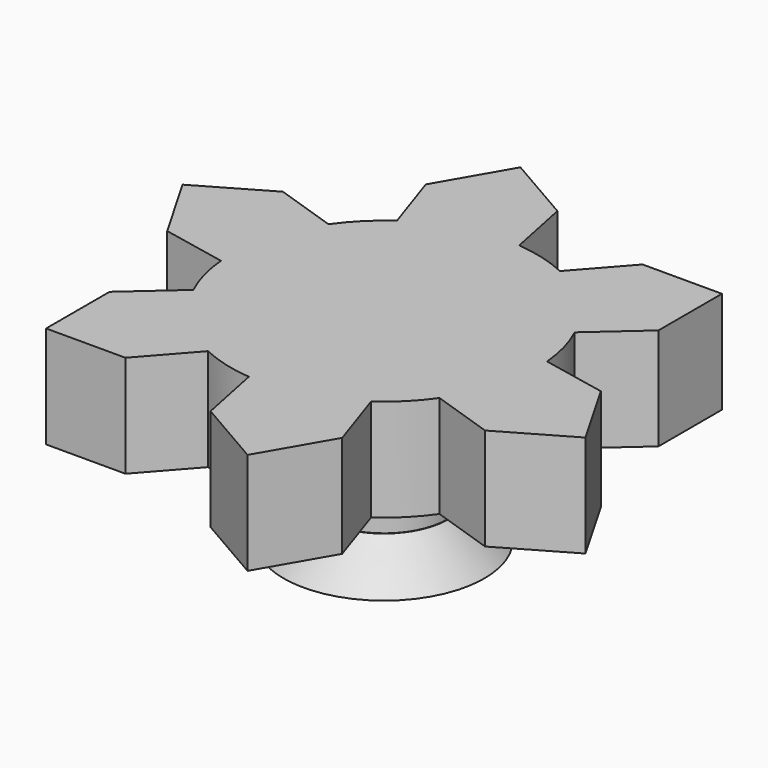
from build123d import *

# Parameters (mm, degrees)
F1_DEPTH = 2.54
F2_R     = 1.5875
F3_DEPTH = 1.5
F4_R     = 2.5
F5_DEPTH = 1


with BuildPart() as f1:
    # F0 (on Top) → F1 (new body)
    with BuildSketch(Plane.XY):
        with BuildLine():
            ThreePointArc((1.6168332291, 3.4499203338), (1.7625208147, 3.3778129578), (1.905, 3.2995567884))
            ThreePointArc((1.905, 3.2995567884), (2.6940768363, 2.6940768363), (3.2995567884, 1.905))
            ThreePointArc((3.2995567884, 1.905), (3.3778129578, 1.7625208147), (3.4499203338, 1.6168332291))
            Line((3.4499203338, 1.6168332291), (4.669733183, 2.6960717102))
            Line((4.669733183, 2.6960717102), (4.669733183, 4.669733183))
            Line((4.669733183, 4.669733183), (2.6960717102, 4.669733183))
            Line((2.6960717102, 4.669733183), (1.6168332291, 3.4499203338))
        make_face()
        with BuildLine():
            Line((1.905, 3.2995567884), (0, 0))
            Line((0, 0), (3.2995567884, 1.905))
            ThreePointArc((3.2995567884, 1.905), (2.6940768363, 2.6940768363), (1.905, 3.2995567884))
        make_face()
        with BuildLine():
            ThreePointArc((0.3247415168, 3.7961352646), (0.1625186786, 3.806532238), (0, 3.81))
            Line((0, 3.81), (0, 0))
            Line((0, 0), (1.905, 3.2995567884))
            ThreePointArc((1.905, 3.2995567884), (1.7625208147, 3.3778129578), (1.6168332291, 3.4499203338))
            ThreePointArc((1.6168332291, 3.4499203338), (0.9861005618, 3.6801773982), (0.3247415168, 3.7961352646))
        make_face()
        with BuildLine():
            ThreePointArc((-1.905, 3.2995567884), (-0.9861005618, 3.6801773982), (0, 3.81))
            ThreePointArc((0, 3.81), (0.1625186786, 3.806532238), (0.3247415168, 3.7961352646))
            Line((0.3247415168, 3.7961352646), (0, 5.3921434204))
            Line((0, 5.3921434204), (-1.7092409739, 6.3789741568))
            Line((-1.7092409739, 6.3789741568), (-2.6960717102, 4.669733183))
            Line((-2.6960717102, 4.669733183), (-2.1793020355, 3.125178817))
            ThreePointArc((-2.1793020355, 3.125178817), (-2.0440114233, 3.2152942791), (-1.905, 3.2995567884))
        make_face()
        with BuildLine():
            Line((0, 0), (0, 3.81))
            ThreePointArc((0, 3.81), (-0.9861005618, 3.6801773982), (-1.905, 3.2995567884))
            Line((-1.905, 3.2995567884), (0, 0))
        make_face()
        with BuildLine():
            Line((-3.2995567884, 1.905), (0, 0))
            Line((0, 0), (-1.905, 3.2995567884))
            ThreePointArc((-1.905, 3.2995567884), (-2.0440114233, 3.2152942791), (-2.1793020355, 3.125178817))
            ThreePointArc((-2.1793020355, 3.125178817), (-2.6940768363, 2.6940768363), (-3.125178817, 2.1793020355))
            ThreePointArc((-3.125178817, 2.1793020355), (-3.2152942791, 2.0440114233), (-3.2995567884, 1.905))
        make_face()
        with BuildLine():
            ThreePointArc((-3.7961352646, -0.3247415168), (-3.806532238, -0.1625186786), (-3.81, 0))
            ThreePointArc((-3.81, 0), (-3.6801773982, 0.9861005618), (-3.2995567884, 1.905))
            ThreePointArc((-3.2995567884, 1.905), (-3.2152942791, 2.0440114233), (-3.125178817, 2.1793020355))
            Line((-3.125178817, 2.1793020355), (-4.669733183, 2.6960717102))
            Line((-4.669733183, 2.6960717102), (-6.3789741568, 1.7092409739))
            Line((-6.3789741568, 1.7092409739), (-5.3921434204, 0))
            Line((-5.3921434204, 0), (-3.7961352646, -0.3247415168))
        make_face()
        with BuildLine():
            Line((-3.81, 0), (0, 0))
            Line((0, 0), (-3.2995567884, 1.905))
            ThreePointArc((-3.2995567884, 1.905), (-3.6801773982, 0.9861005618), (-3.81, 0))
        make_face()
        with BuildLine():
            Line((-3.2995567884, -1.905), (0, 0))
            Line((0, 0), (-3.81, 0))
            ThreePointArc((-3.81, 0), (-3.806532238, -0.1625186786), (-3.7961352646, -0.3247415168))
            ThreePointArc((-3.7961352646, -0.3247415168), (-3.6801773982, -0.9861005618), (-3.4499203338, -1.6168332291))
            ThreePointArc((-3.4499203338, -1.6168332291), (-3.3778129578, -1.7625208147), (-3.2995567884, -1.905))
        make_face()
        with BuildLine():
            Line((-1.905, -3.2995567884), (0, 0))
            Line((0, 0), (-3.2995567884, -1.905))
            ThreePointArc((-3.2995567884, -1.905), (-2.6940768363, -2.6940768363), (-1.905, -3.2995567884))
        make_face()
        with BuildLine():
            ThreePointArc((-1.6168332291, -3.4499203338), (-1.7625208147, -3.3778129578), (-1.905, -3.2995567884))
            ThreePointArc((-1.905, -3.2995567884), (-2.6940768363, -2.6940768363), (-3.2995567884, -1.905))
            ThreePointArc((-3.2995567884, -1.905), (-3.3778129578, -1.7625208147), (-3.4499203338, -1.6168332291))
            Line((-3.4499203338, -1.6168332291), (-4.669733183, -2.6960717102))
            Line((-4.669733183, -2.6960717102), (-4.669733183, -4.669733183))
            Line((-4.669733183, -4.669733183), (-2.6960717102, -4.669733183))
            Line((-2.6960717102, -4.669733183), (-1.6168332291, -3.4499203338))
        make_face()
        with BuildLine():
            Line((0, -3.81), (0, 0))
            Line((0, 0), (-1.905, -3.2995567884))
            ThreePointArc((-1.905, -3.2995567884), (-1.7625208147, -3.3778129578), (-1.6168332291, -3.4499203338))
            ThreePointArc((-1.6168332291, -3.4499203338), (-0.9861005618, -3.6801773982), (-0.3247415168, -3.7961352646))
            ThreePointArc((-0.3247415168, -3.7961352646), (-0.1625186786, -3.806532238), (0, -3.81))
        make_face()
        with BuildLine():
            ThreePointArc((1.905, -3.2995567884), (0.9861005618, -3.6801773982), (0, -3.81))
            Line((0, -3.81), (0, -5.3921434204))
            Line((0, -5.3921434204), (1.7092409739, -6.3789741568))
            Line((1.7092409739, -6.3789741568), (2.6960717102, -4.669733183))
            Line((2.6960717102, -4.669733183), (2.1793020355, -3.125178817))
            ThreePointArc((2.1793020355, -3.125178817), (2.0440114233, -3.2152942791), (1.905, -3.2995567884))
        make_face()
        with BuildLine():
            Line((1.905, -3.2995567884), (0, 0))
            Line((0, 0), (0, -3.81))
            ThreePointArc((0, -3.81), (0.9861005618, -3.6801773982), (1.905, -3.2995567884))
        make_face()
        with BuildLine():
            Line((3.2995567884, -1.905), (0, 0))
            Line((0, 0), (1.905, -3.2995567884))
            ThreePointArc((1.905, -3.2995567884), (2.0440114233, -3.2152942791), (2.1793020355, -3.125178817))
            ThreePointArc((2.1793020355, -3.125178817), (2.6940768363, -2.6940768363), (3.125178817, -2.1793020355))
            ThreePointArc((3.125178817, -2.1793020355), (3.2152942791, -2.0440114233), (3.2995567884, -1.905))
        make_face()
        with BuildLine():
            Line((3.81, 0), (0, 0))
            Line((0, 0), (3.2995567884, -1.905))
            ThreePointArc((3.2995567884, -1.905), (3.6801773982, -0.9861005618), (3.81, 0))
        make_face()
        with BuildLine():
            Line((3.2995567884, 1.905), (0, 0))
            Line((0, 0), (3.81, 0))
            ThreePointArc((3.81, 0), (3.806532238, 0.1625186786), (3.7961352646, 0.3247415168))
            ThreePointArc((3.7961352646, 0.3247415168), (3.6801773982, 0.9861005618), (3.4499203338, 1.6168332291))
            ThreePointArc((3.4499203338, 1.6168332291), (3.3778129578, 1.7625208147), (3.2995567884, 1.905))
        make_face()
        with BuildLine():
            ThreePointArc((3.7961352646, 0.3247415168), (3.806532238, 0.1625186786), (3.81, 0))
            ThreePointArc((3.81, 0), (3.6801773982, -0.9861005618), (3.2995567884, -1.905))
            ThreePointArc((3.2995567884, -1.905), (3.2152942791, -2.0440114233), (3.125178817, -2.1793020355))
            Line((3.125178817, -2.1793020355), (4.669733183, -2.6960717102))
            Line((4.669733183, -2.6960717102), (6.3789741568, -1.7092409739))
            Line((6.3789741568, -1.7092409739), (5.3921434204, 0))
            Line((5.3921434204, 0), (3.7961352646, 0.3247415168))
        make_face()
        with BuildLine():
            Line((0, -5.3921434204), (0, -3.81))
            ThreePointArc((0, -3.81), (-0.1625186786, -3.806532238), (-0.3247415168, -3.7961352646))
            Line((-0.3247415168, -3.7961352646), (0, -5.3921434204))
        make_face()
    extrude(amount=F1_DEPTH)

    # F2 (on face) → F3 (join)
    with BuildSketch(Plane(origin=(0, 0, 0), x_dir=(1, 0, 0), z_dir=(0, 0, -1))):
        Circle(F2_R)
    extrude(amount=F3_DEPTH)

    # F4 (on face) → F5 (join)
    with BuildSketch(Plane(origin=(0, 0, -1.5), x_dir=(1, 0, 0), z_dir=(0, 0, -1))):
        Circle(F4_R)
    extrude(amount=F5_DEPTH)

    # F6 (on Right) → F7 (revolve, cut)
    with BuildSketch(Plane.YZ):
        Polygon((1.7, -1.5), (1.5990135726, -1.5), (2.5, -2.5), (2.5, -1.5), align=None)
    revolve(axis=Axis((0, 0, -2), (0, 0, 1)), mode=Mode.SUBTRACT)


solid = f1.part
